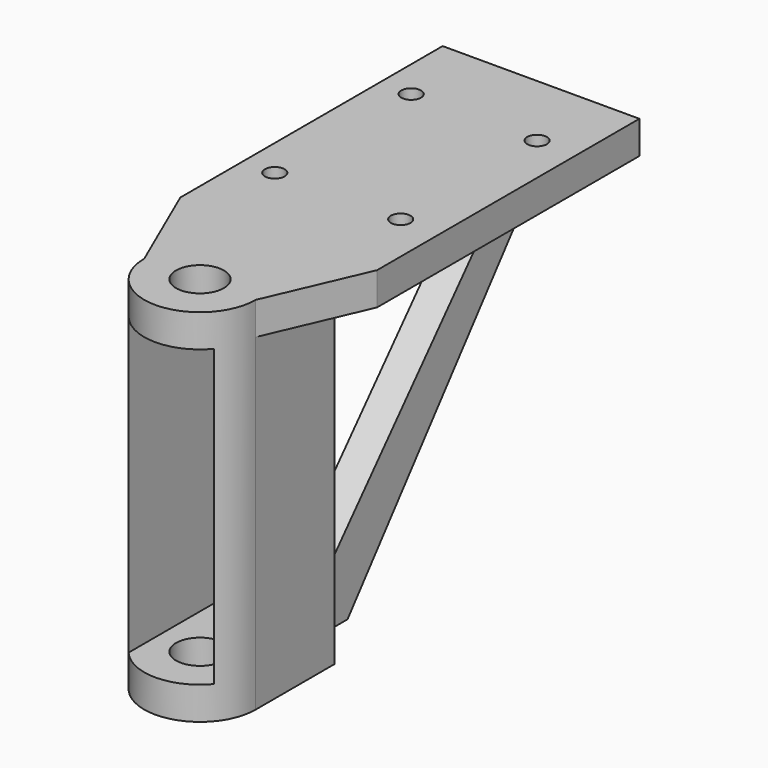
from build123d import *

# Parameters (mm, degrees)
SKETCH007_R     = 3.65
PAD005_DEPTH    = 55
SKETCH008_R     = 1.5
SKETCH008_R_2   = 3.7
PAD006_DEPTH    = 5
PAD007_DEPTH    = 2.5
SKETCH010_W     = 40
SKETCH010_H     = 45
POCKET001_DEPTH = 6.5
CHAMFER_SIZE    = 5.99


with BuildPart() as part:
    # Sketch007 → Pad005 (new body)
    with BuildSketch(Plane.XY):
        with BuildLine():
            ThreePointArc((0, -15), (8.5, -23.5), (17, -15))
            Line((17, 0), (17, -15))
            Line((0, 0), (17, 0))
            Line((0, -15), (0, 0))
        make_face()
        with Locations((8.5, -15)):
            Circle(SKETCH007_R, mode=Mode.SUBTRACT)
    extrude(amount=-PAD005_DEPTH)

    # Sketch008 → Pad006 (join)
    with BuildSketch(Plane.XY):
        with BuildLine():
            Line((23.5, 0), (23.5, 50))
            Line((23.5, 50), (-6.5, 50))
            Line((-6.5, 50), (-6.5, 0))
            Line((0, -15), (-6.5, 0))
            ThreePointArc((0, -15), (8.5, -23.5), (17, -15))
            Line((17, -15), (23.5, 0))
        make_face()
        with Locations((17.5, 12)):
            Circle(SKETCH008_R, mode=Mode.SUBTRACT)
        with Locations((17.5, 38)):
            Circle(SKETCH008_R, mode=Mode.SUBTRACT)
        with Locations((-1.694422, 38)):
            Circle(SKETCH008_R, mode=Mode.SUBTRACT)
        with Locations((-1.694422, 12)):
            Circle(SKETCH008_R, mode=Mode.SUBTRACT)
        with Locations((8.5, -15)):
            Circle(SKETCH008_R_2, mode=Mode.SUBTRACT)
    extrude(amount=-PAD006_DEPTH)

    # Sketch009 (on DatumPlane) → Pad007 (join, symmetric)
    with BuildSketch(Plane(origin=(8.5, 0, 1), x_dir=(0, 1, 0), z_dir=(1, 0, 0))):
        Polygon((0, -56), (0, -6), (50, -6), (10, -56), align=None)
        Polygon((6, -12), (6, -48), (38, -12), align=None, mode=Mode.SUBTRACT)
    extrude(amount=PAD007_DEPTH, both=True)

    # Sketch010 (on DatumPlane) → Pocket001 (cut, symmetric)
    with BuildSketch(Plane(origin=(8.5, 0, 1), x_dir=(0, 1, 0), z_dir=(1, 0, 0))):
        with Locations((-22, -28.5)):
            Rectangle(SKETCH010_W, SKETCH010_H)
    extrude(amount=POCKET001_DEPTH, both=True, mode=Mode.SUBTRACT)

    # Chamfer
    chamfer_edges = [part.edges().sort_by_distance(p)[0] for p in [
        (6, 0, -30),
        (11, 0, -30),
    ]]
    chamfer(chamfer_edges, length=CHAMFER_SIZE)


with BuildPart() as part_1:
    # Body003 placement: moved
    add(part.part.moved(Location((0, 0, -4))))


solid = part_1.part
